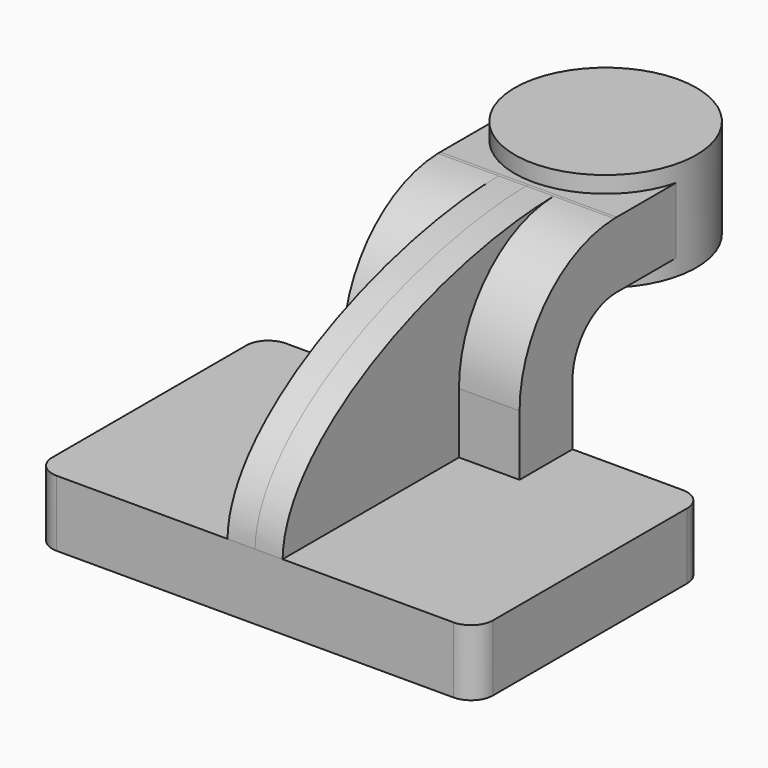
from build123d import *

# Parameters (mm, degrees)
F1_DEPTH = 63.5
F0_W     = 24.6246428497
F0_H     = 19.05
F2_DEPTH = 25.4
F3_DEPTH = 7.9375
F5_R     = 6.35


with BuildPart() as f1:
    # F0 (on Right) → F1 (new body, symmetric)
    with BuildSketch(Plane.YZ):
        Polygon((-41.275, -9.525), (41.275, -9.525), (41.275, 9.525), (22.225, 9.525), (-41.275, 9.525), align=None)
    extrude(amount=F1_DEPTH, both=True)

    # F0 (on Right) → F2 (join, symmetric)
    with BuildSketch(Plane.YZ):
        with BuildLine():
            Line((22.225, 9.525), (41.275, 9.525))
            Line((41.275, 9.525), (41.275, 27.0002))
            ThreePointArc((41.275, 27.0002), (45.9246798487, 38.2255201513), (57.15, 42.8752))
            Line((57.15, 42.8752), (60.325, 42.8752))
            Line((60.325, 42.8752), (60.325, 61.9252))
            Line((60.325, 61.9252), (57.15, 61.9252))
            add(Edge.make_bspline(
                [(56.2913843938, 61.9146440632), (56.5780770871, 61.9191303195), (56.8642886028, 61.9226504349), (57.15, 61.9252)],
                knots=[110.7664159172, 110.7664159172, 110.7664159172, 110.7664159172, 111.5045361635, 111.5045361635, 111.5045361635, 111.5045361635], degree=3))
            ThreePointArc((56.2913843938, 61.9146440632), (32.1525723819, 51.3904488195), (22.225, 27.0002))
            Line((22.225, 27.0002), (22.225, 9.525))
        make_face()
        with Locations((72.6373214248, 52.4002)):
            Rectangle(F0_W, F0_H)
    extrude(amount=F2_DEPTH, both=True)

    # F0 (on Right) → F3 (join, symmetric)
    with BuildSketch(Plane.YZ):
        with BuildLine():
            add(Edge.make_bspline(
                [(-41.275, 9.525), (-40.5899635887, 38.8110076579), (13.2686895658, 61.2414115691), (56.2913843938, 61.9146440632)],
                knots=[0, 0, 0, 0, 110.7664159172, 110.7664159172, 110.7664159172, 110.7664159172], degree=3))
            Line((-41.275, 9.525), (22.225, 9.525))
            Line((22.225, 9.525), (22.225, 27.0002))
            ThreePointArc((22.225, 27.0002), (32.1525723819, 51.3904488195), (56.2913843938, 61.9146440632))
        make_face()
    extrude(amount=F3_DEPTH, both=True)

    # F0 (on Right) → F4 (revolve)
    with BuildSketch(Plane.YZ):
        Polygon((84.9496428497, 61.9252), (84.9496428497, 42.8752), (84.9496428497, 38.1), (111.125, 38.1), (111.125, 66.675), (84.9496428497, 66.675), align=None)
    revolve(axis=Axis((0, 84.9496428497, 52.3875), (0, 0, -1)))

    # F5
    f5_edges = [f1.edges().sort_by_distance(p)[0] for p in [
        (63.5, -41.275, 0),
        (63.5, 41.275, 0),
        (-63.5, 41.275, 0),
        (-63.5, -41.275, 0),
    ]]
    fillet(f5_edges, radius=F5_R)


solid = f1.part
